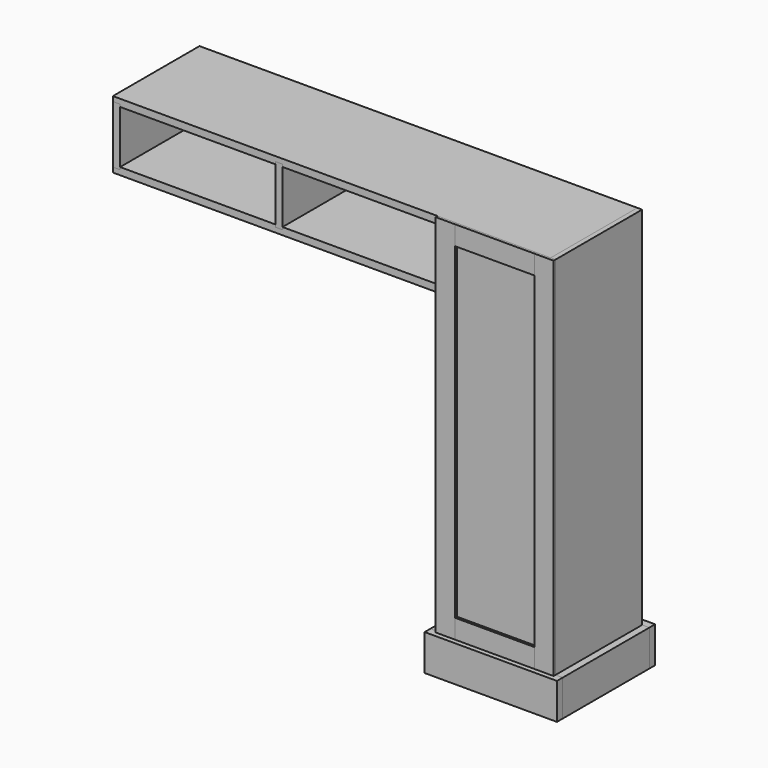
from build123d import *

# Parameters (mm, degrees)
F0_W          = 19.05
F0_H          = 95.25
F1_DEPTH      = 142.875
F2_DEPTH      = 142.875
F2_DEPTH_BACK = 142.875
F3_W          = 349.25
F3_H          = 95.25
F4_DEPTH      = 19.05
F5_W          = 349.25
F5_H          = 95.25
F6_DEPTH      = 19.05
F8_W          = 285.75
F8_H          = 1047.75
F9_DEPTH      = 19.05
F10_DEPTH     = 19.05
F11_W         = 209.55
F11_H         = 50.8
F11_H_2       = 12.7
F11_H_3       = 38.1
F12_DEPTH     = 6.35
F11_W_2       = 50.8
F11_W_3       = 38.1
F13_DEPTH     = 6.35


with BuildPart() as f1:
    # F0 (on Front) → F1 (new body, symmetric)
    with BuildSketch(Plane.XZ):
        with Locations((847.725, 53.975)):
            Rectangle(F0_W, F0_H)
        Polygon((869.95, 82.55), (876.3, 82.55), (1149.35, 82.55), (1155.7, 82.55), (1155.7, 101.6), (1149.35, 101.6), (876.3, 101.6), (869.95, 101.6), align=None)
        with Locations((1177.925, 53.975)):
            Rectangle(F0_W, F0_H)
        Polygon((1155.7, 425.45), (1149.35, 425.45), (876.3, 425.45), (869.95, 425.45), (869.95, 406.4), (876.3, 406.4), (1149.35, 406.4), (1155.7, 406.4), align=None)
        Polygon((1155.7, 749.3), (1149.35, 749.3), (876.3, 749.3), (869.95, 749.3), (869.95, 730.25), (876.3, 730.25), (1149.35, 730.25), (1155.7, 730.25), align=None)
        Polygon((0, 1066.8), (0, 1054.1), (19.05, 1054.1), (19.05, 1047.75), (428.625, 1047.75), (428.625, 1054.1), (447.675, 1054.1), (447.675, 1047.75), (857.25, 1047.75), (857.25, 1054.1), (876.3, 1054.1), (876.3, 1047.75), (1149.35, 1047.75), (1155.7, 1047.75), (1155.7, 1066.8), align=None)
        Polygon((19.05, 901.7), (0, 901.7), (0, 889), (857.25, 889), (863.6, 889), (863.6, 908.05), (857.25, 908.05), (447.675, 908.05), (447.675, 901.7), (428.625, 901.7), (428.625, 908.05), (19.05, 908.05), align=None)
    extrude(amount=F1_DEPTH, both=True)


with BuildPart() as f2:
    # F0 (on Front) → F2 (new body, two sides)
    with BuildSketch(Plane.XZ) as f2_sk:
        Polygon((863.6, 889), (857.25, 889), (857.25, 101.6), (857.25, 6.35), (857.25, 0), (876.3, 0), (876.3, 82.55), (869.95, 82.55), (869.95, 101.6), (876.3, 101.6), (876.3, 406.4), (869.95, 406.4), (869.95, 425.45), (876.3, 425.45), (876.3, 730.25), (869.95, 730.25), (869.95, 749.3), (876.3, 749.3), (876.3, 1047.75), (876.3, 1054.1), (857.25, 1054.1), (857.25, 1047.75), (857.25, 908.05), (863.6, 908.05), align=None)
        Polygon((1168.4, 1066.8), (1155.7, 1066.8), (1155.7, 1047.75), (1149.35, 1047.75), (1149.35, 749.3), (1155.7, 749.3), (1155.7, 730.25), (1149.35, 730.25), (1149.35, 425.45), (1155.7, 425.45), (1155.7, 406.4), (1149.35, 406.4), (1149.35, 101.6), (1155.7, 101.6), (1155.7, 82.55), (1149.35, 82.55), (1149.35, 0), (1168.4, 0), (1168.4, 6.35), (1168.4, 101.6), (1168.4, 1047.75), align=None)
        Polygon((428.625, 1047.75), (428.625, 908.05), (428.625, 901.7), (447.675, 901.7), (447.675, 908.05), (447.675, 1047.75), (447.675, 1054.1), (428.625, 1054.1), align=None)
        Polygon((0, 1047.75), (0, 908.05), (0, 901.7), (19.05, 901.7), (19.05, 908.05), (19.05, 1047.75), (19.05, 1054.1), (0, 1054.1), align=None)
    extrude(amount=F2_DEPTH)
    extrude(f2_sk.sketch, amount=-F2_DEPTH_BACK)


with BuildPart() as f4:
    # F3 (on face) → F4 (new body)
    with BuildSketch(Plane.XZ.offset(142.875)):
        with Locations((1012.825, 53.975)):
            Rectangle(F3_W, F3_H)
    extrude(amount=F4_DEPTH)


with BuildPart() as f6:
    # F5 (on face) → F6 (new body)
    with BuildSketch(Plane(origin=(0, 142.875, 0), x_dir=(-1, 0, 0), z_dir=(0, 1, 0))):
        with Locations((-1012.825, 53.975)):
            Rectangle(F5_W, F5_H)
    extrude(amount=F6_DEPTH)


with BuildPart() as f9_tool:
    # F8 (on face) → F9 (new body)
    with BuildSketch(Plane.XZ.offset(142.875)):
        with Locations((1012.825, 530.225)):
            Rectangle(F8_W, F8_H)
    extrude(amount=-F9_DEPTH)


with BuildPart() as f1_1:
    add(f1.part)

    # F9: cut by f9_tool
    add(f9_tool.part, mode=Mode.SUBTRACT)


with BuildPart() as f2_1:
    add(f2.part)

    # F9: cut by f9_tool
    add(f9_tool.part, mode=Mode.SUBTRACT)


with BuildPart() as f10:
    # F8 (on face) → F10 (new body)
    with BuildSketch(Plane.XZ.offset(142.875)):
        with Locations((1012.825, 530.225)):
            Rectangle(F8_W, F8_H)
    extrude(amount=-F10_DEPTH)


with BuildPart() as f12:
    # F11 (on face) → F12 (new body)
    with BuildSketch(Plane.XZ.offset(142.875)):
        with Locations((1012.825, 127)):
            Rectangle(F11_W, F11_H)
        with Locations((1012.825, 1060.45)):
            Rectangle(F11_W, F11_H_2)
        with Locations((1012.825, 1035.05)):
            Rectangle(F11_W, F11_H_3)
    extrude(amount=F12_DEPTH)


with BuildPart() as f13:
    # F11 (on face) → F13 (new body, through all)
    with BuildSketch(Plane.XZ.offset(142.875)):
        with Locations((882.65, 1060.45)):
            Rectangle(F11_W_2, F11_H_2)
        with Locations((1136.65, 1060.45)):
            Rectangle(F11_W_3, F11_H_2)
        Polygon((908.05, 1054.1), (857.25, 1054.1), (857.25, 1047.75), (857.25, 101.6), (908.05, 101.6), (908.05, 152.4), (908.05, 1016), align=None)
        Polygon((1155.7, 1054.1), (1117.6, 1054.1), (1117.6, 1016), (1117.6, 152.4), (1117.6, 101.6), (1168.4, 101.6), (1168.4, 1066.8), (1155.7, 1066.8), align=None)
    extrude(amount=F13_DEPTH)


solid = Compound([f4.part, f6.part, f1_1.part, f2_1.part, f10.part, f12.part, f13.part])
